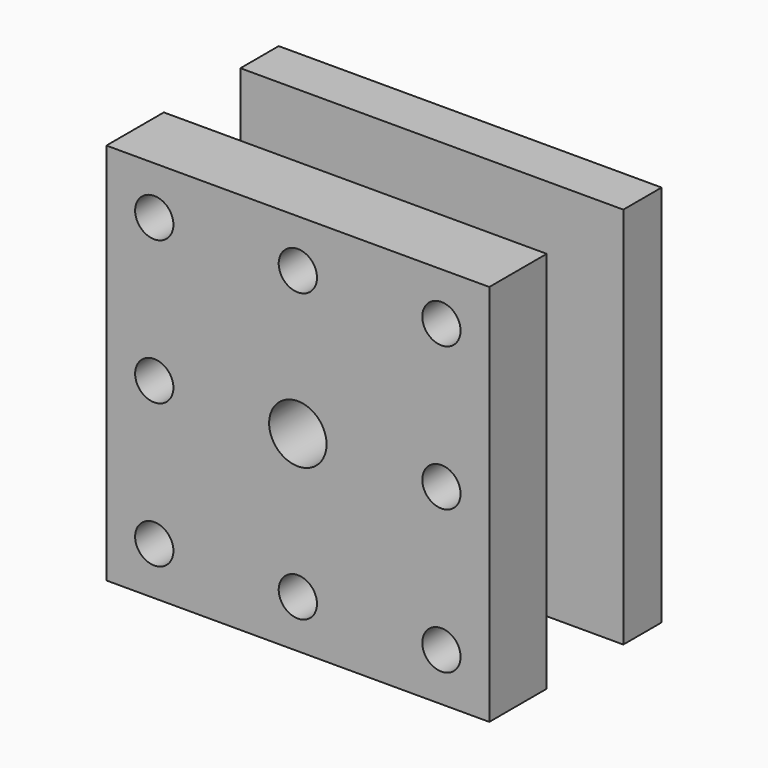
from build123d import *

# Parameters (mm, degrees)
SKETCH_W        = 80
SKETCH_H        = 80
PAD_DEPTH       = 10
SKETCH001_W     = 40
SKETCH001_H     = 40
PAD001_DEPTH    = 20
SKETCH002_W     = 80
SKETCH002_H     = 80
PAD002_DEPTH    = 15
SKETCH003_R     = 4
POCKET_DEPTH    = 15
SKETCH004_R     = 6
POCKET001_DEPTH = 45.001


with BuildPart() as part:
    # Sketch → Pad (new body)
    with BuildSketch(Plane.XZ):
        Rectangle(SKETCH_W, SKETCH_H)
    extrude(amount=PAD_DEPTH)

    # Sketch001 (on Face6 of Pad) → Pad001 (join)
    with BuildSketch(Plane.XZ.offset(10)):
        Rectangle(SKETCH001_W, SKETCH001_H)
    extrude(amount=PAD001_DEPTH)

    # Sketch002 (on Face11 of Pad001) → Pad002 (join)
    with BuildSketch(Plane.XZ.offset(30)):
        Rectangle(SKETCH002_W, SKETCH002_H)
    extrude(amount=PAD002_DEPTH)

    # Sketch003 (on Face5 of Pad002) → Pocket (cut)
    with BuildSketch(Plane.XZ.offset(45)):
        with Locations((-30, 30)):
            Circle(SKETCH003_R)
        with Locations((30, 30)):
            Circle(SKETCH003_R)
        with Locations((30, -30)):
            Circle(SKETCH003_R)
        with Locations((-30, -30)):
            Circle(SKETCH003_R)
        with Locations((0, -30)):
            Circle(SKETCH003_R)
        with Locations((0, 30)):
            Circle(SKETCH003_R)
        with Locations((-30, 0)):
            Circle(SKETCH003_R)
        with Locations((30, 0)):
            Circle(SKETCH003_R)
    extrude(amount=-POCKET_DEPTH, mode=Mode.SUBTRACT)

    # Sketch004 (on Face5 of Pocket) → Pocket001 (cut, through all)
    with BuildSketch(Plane.XZ.offset(45)):
        Circle(SKETCH004_R)
    extrude(amount=-POCKET001_DEPTH, mode=Mode.SUBTRACT)


solid = part.part
